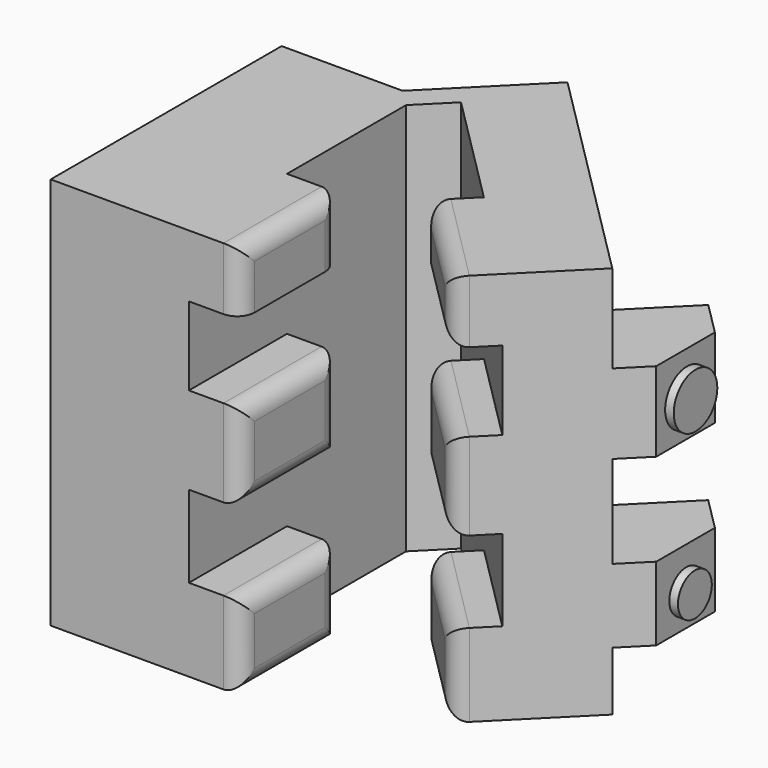
from build123d import *

# Parameters (mm, degrees)
F0_W      = 84.8816260695
F0_H      = 77.4099454284
F1_DEPTH  = 40.64
F2_DEPTH  = 38.1
F3_SIZE   = 5.08
F4_DEPTH  = 12.7
F5_W      = 93.0721817722
F5_H      = 115.5099454284
F6_DEPTH  = 25.4
F7_W      = 36.0550768673
F7_H      = 25.6806416437
F7_H_2    = 18.3557639778
F7_H_3    = 24.3065860122
F8_DEPTH  = 15.24
F9_W      = 38.0150713027
F9_H      = 24.3256706744
F9_H_2    = 25.5810311064
F9_W_2    = 38.3858084679
F9_H_3    = 18.5193228483
F10_DEPTH = 12.7
F11_R     = 5.08
F12_W     = 29.0874056518
F12_H     = 21.6887369752
F12_W_2   = 28.9331488311
F12_H_2   = 23.4388820827
F13_DEPTH = 25.4
F14_SIZE  = 15.24
F15_R     = 8.0063032483
F15_R_2   = 6.2284075283
F16_DEPTH = 2.54


with BuildPart() as f1:
    # F0 (on Right) → F1 (new body)
    with BuildSketch(Plane.YZ):
        with Locations((6.3857361674, -0.295586884)):
            Rectangle(F0_W, F0_H)
    extrude(amount=-F1_DEPTH)

    # F2 (add): a face of the model
    f2_faces = [f1.faces().sort_by_distance(p)[0] for p in [
        (-20.32, 6.3857361674, 38.4093858302),
    ]]
    extrude(f2_faces, amount=F2_DEPTH)

    # F3
    f3_edges = [f1.edges().sort_by_distance(p)[0] for p in [
        (0, 48.826549, 18.754413),
    ]]
    chamfer(f3_edges, length=F3_SIZE)

    # F4 (add): a face of the model
    f4_faces = [f1.faces().sort_by_distance(p)[0] for p in [
        (-2.54, 46.2865492022, 18.754413116),
    ]]
    extrude(f4_faces, amount=F4_DEPTH)

    # F5 (on face) → F6 (join)
    with BuildSketch(Plane(origin=(30.8535307222, 30.8535307222, 0), x_dir=(-0.7071067812, 0.7071067812, 0), z_dir=(0.7071067812, 0.7071067812, 0))):
        with Locations((-8.4184043949, 18.754413116)):
            Rectangle(F5_W, F5_H)
    extrude(amount=F6_DEPTH)

    # F7 (on face) → F8 (join)
    with BuildSketch(Plane.YZ):
        with Locations((-18.0275384337, 22.2555273212)):
            Rectangle(F7_W, F7_H)
        with Locations((-18.0275384337, 67.3315038413)):
            Rectangle(F7_W, F7_H_2)
        with Locations((-18.0275384337, -26.8472665921)):
            Rectangle(F7_W, F7_H_3)
    extrude(amount=F8_DEPTH)

    # F9 (on face) → F10 (join)
    with BuildSketch(Plane(origin=(30.8535307222, 30.8535307222, 0), x_dir=(0.7071067812, -0.7071067812, 0), z_dir=(-0.7071067812, -0.7071067812, 0))):
        with Locations((35.9469596297, -26.837724261)):
            Rectangle(F9_W, F9_H)
        with Locations((35.9469596297, 22.0283274539)):
            Rectangle(F9_W, F9_H_2)
        with Locations((35.761591047, 67.249724406)):
            Rectangle(F9_W_2, F9_H_3)
    extrude(amount=F10_DEPTH)

    # F11
    f11_edges = [f1.edges().sort_by_distance(p)[0] for p in [
        (15.24, -36.055077, 67.331504),
        (15.24, -18.027538, 76.509386),
        (15.24, 0, 67.331504),
        (15.24, -18.027538, 35.095848),
        (15.24, -36.055077, 22.255527),
        (15.24, -18.027538, 9.415206),
        (15.24, 0, 22.255527),
        (15.24, -36.055077, -26.847267),
        (15.24, -18.027538, -39.00056),
        (15.24, 0, -26.847267),
        (15.24, -18.027538, -14.693974),
        (60.731971, -16.985422, 67.249724),
        (47.160538, -3.413989, 76.509386),
        (33.589105, 10.157444, 67.249724),
        (47.160538, -3.413989, 57.990063),
        (60.731971, -16.985422, 22.028327),
        (47.291614, -3.545064, 34.818843),
        (33.851256, 9.895293, 22.028327),
        (47.291614, -3.545064, 9.237812),
        (33.851256, 9.895293, -26.837724),
        (47.291614, -3.545064, -39.00056),
        (60.731971, -16.985422, -26.837724),
        (47.291614, -3.545064, -14.674889),
    ]]
    fillet(f11_edges, radius=F11_R)

    # F12 (on face) → F13 (join)
    with BuildSketch(Plane(origin=(48.8140429643, 48.8140429643, 0), x_dir=(-0.7071067812, 0.7071067812, 0), z_dir=(0.7071067812, 0.7071067812, 0))):
        with Locations((-40.4107924551, -10.8443684876)):
            Rectangle(F12_W, F12_H)
        with Locations((-40.4879208654, 38.8789121062)):
            Rectangle(F12_W_2, F12_H_2)
    extrude(amount=F13_DEPTH)

    # F14
    f14_edges = [f1.edges().sort_by_distance(p)[0] for p in [
        (105.633251, 27.915859, 38.878912),
        (105.633251, 27.915859, -10.844368),
    ]]
    chamfer(f14_edges, length=F14_SIZE)

    # F15 (on face) → F16 (join)
    with BuildSketch(Plane.YZ.offset(94.856944131)):
        with Locations((28.4049902111, 37.9507169127)):
            Circle(F15_R)
        with Locations((28.1626116484, -12.1466107666)):
            Circle(F15_R_2)
    extrude(amount=F16_DEPTH)


solid = f1.part
